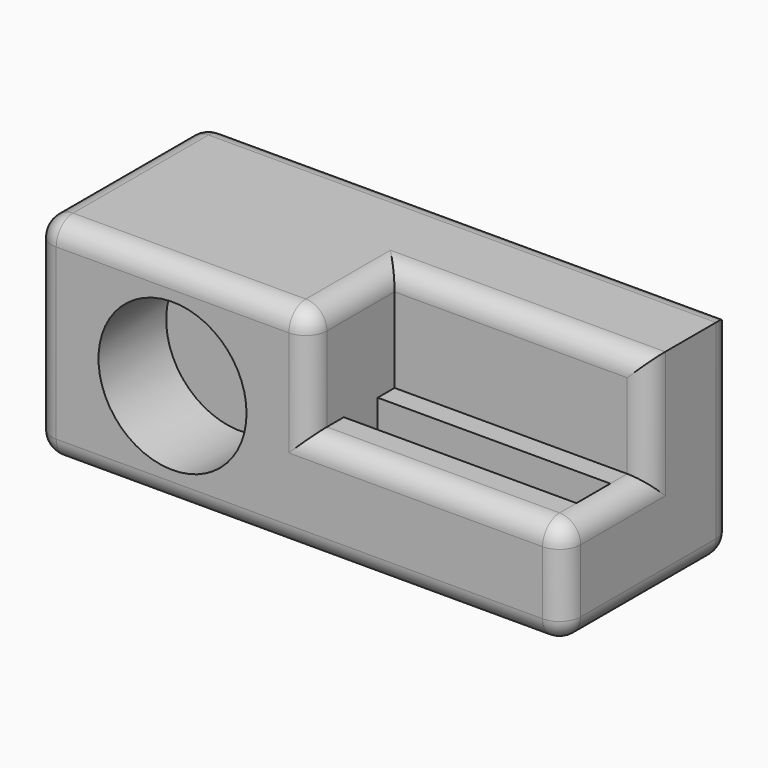
from build123d import *

# Parameters (mm, degrees)
F0_W      = 125
F0_H      = 50
F1_DEPTH  = 50
F2_W      = 60
F2_H      = 25
F3_DEPTH  = 25
F4_R      = 17.5
F5_DEPTH  = 20
F6_R      = 5
F7_W      = 55
F7_H      = 10
F8_DEPTH  = 10
F9_R      = 3.5
F10_DEPTH = 25


with BuildPart() as f1:
    # F0 (on Front) → F1 (new body)
    with BuildSketch(Plane.XZ):
        with Locations((4.2377149548, 2.7714315802)):
            Rectangle(F0_W, F0_H)
    extrude(amount=F1_DEPTH)

    # F2 (on face) → F3 (cut)
    with BuildSketch(Plane.XZ.offset(50)):
        with Locations((36.7377149548, 15.2714315802)):
            Rectangle(F2_W, F2_H)
    extrude(amount=-F3_DEPTH, mode=Mode.SUBTRACT)

    # F4 (on face) → F5 (cut)
    with BuildSketch(Plane.XZ.offset(50)):
        with Locations((-25.7622850452, 2.7714315802)):
            Circle(F4_R)
    extrude(amount=-F5_DEPTH, mode=Mode.SUBTRACT)

    # F6
    f6_edges = [f1.edges().sort_by_distance(p)[0] for p in [
        (-25.762285, -50, 27.771432),
        (-58.262285, -50, 2.771432),
        (4.237715, -50, -22.228568),
        (66.737715, -50, -9.728568),
        (36.737715, -50, 2.771432),
        (6.737715, -50, 15.271432),
        (6.737715, -37.5, 27.771432),
        (36.737715, -25, 27.771432),
        (66.737715, -25, 15.271432),
        (66.737715, -37.5, 2.771432),
        (66.737715, -25, -22.228568),
        (66.737715, 0, 2.771432),
        (4.237715, 0, 27.771432),
        (4.237715, 0, -22.228568),
        (-58.262285, 0, 2.771432),
        (-58.262285, -25, 27.771432),
        (-58.262285, -25, -22.228568),
    ]]
    fillet(f6_edges, radius=F6_R)

    # F7 (on face) → F8 (cut)
    with BuildSketch(Plane.XY.offset(2.7714315802)):
        with Locations((34.2377149548, -35)):
            Rectangle(F7_W, F7_H)
    extrude(amount=-F8_DEPTH, mode=Mode.SUBTRACT)

    # F9 (on face) → F10 (cut)
    with BuildSketch(Plane.XY.offset(-7.2285684198)):
        with Locations((35.2377149548, -35.0629985332)):
            Circle(F9_R)
    extrude(amount=-F10_DEPTH, mode=Mode.SUBTRACT)


solid = f1.part
